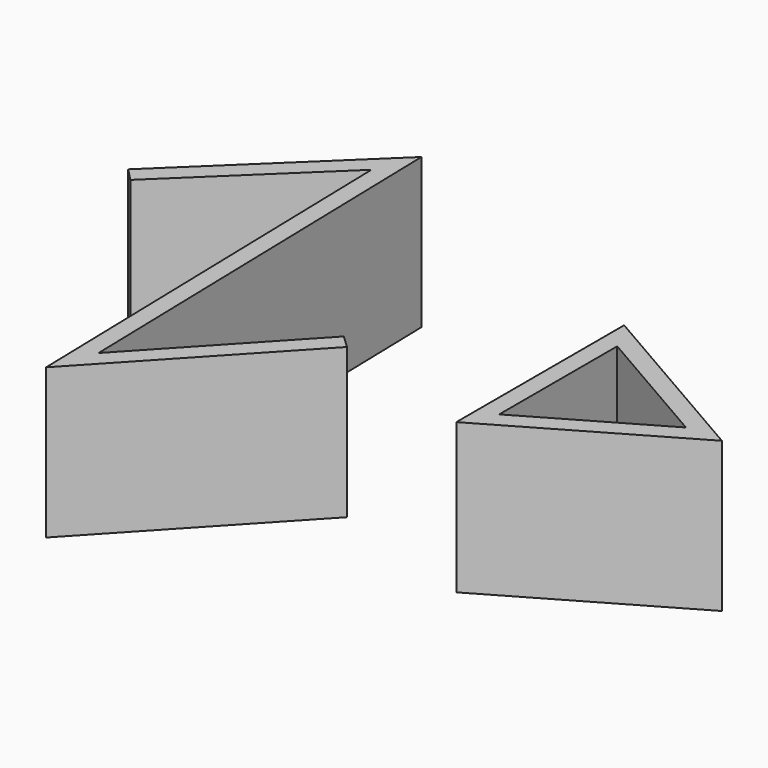
from build123d import *

# Parameters (mm, degrees)
F1_DEPTH = 20
F2_DEPTH = 25


with BuildPart() as f1:
    # F0 (on Top) → F1 (new body)
    with BuildSketch(Plane.XY):
        Polygon((23.408046, -16.473714), (53.718935, 1.026286), (23.408046, 18.526286), align=None)
        Polygon((47.718935, 1.026286), (26.408046, -11.277562), (26.408046, 13.330133), align=None, mode=Mode.SUBTRACT)
        Polygon((-54.518348, 12.51495), (-53.47897, 11.433426), (-28.278561, 35.651808), (-26.567978, -34.073471), (-2.04101, -7.786065), (-3.137759, -6.762765), (-25.15853, -30.36409), (-26.862534, 39.093052), align=None)
        Polygon((-28.278561, 35.651808), (-53.47897, 11.433426), (-52.439592, 10.351902), (-29.694588, 32.210563), (-27.977427, -37.782852), (-0.944262, -8.809365), (-2.04101, -7.786065), (-26.567978, -34.073471), align=None)
    extrude(amount=F1_DEPTH)


with BuildPart() as f2:
    # F0 (on Top) → F2 (new body)
    with BuildSketch(Plane.XY):
        Polygon((23.408046, -16.473714), (53.718935, 1.026286), (23.408046, 18.526286), align=None)
        Polygon((47.718935, 1.026286), (26.408046, -11.277562), (26.408046, 13.330133), align=None, mode=Mode.SUBTRACT)
        Polygon((-54.518348, 12.51495), (-53.47897, 11.433426), (-28.278561, 35.651808), (-26.567978, -34.073471), (-2.04101, -7.786065), (-3.137759, -6.762765), (-25.15853, -30.36409), (-26.862534, 39.093052), align=None)
        Polygon((-28.278561, 35.651808), (-53.47897, 11.433426), (-52.439592, 10.351902), (-29.694588, 32.210563), (-27.977427, -37.782852), (-0.944262, -8.809365), (-2.04101, -7.786065), (-26.567978, -34.073471), align=None)
    extrude(amount=F2_DEPTH)


solid = Compound([f1.part, f2.part])
